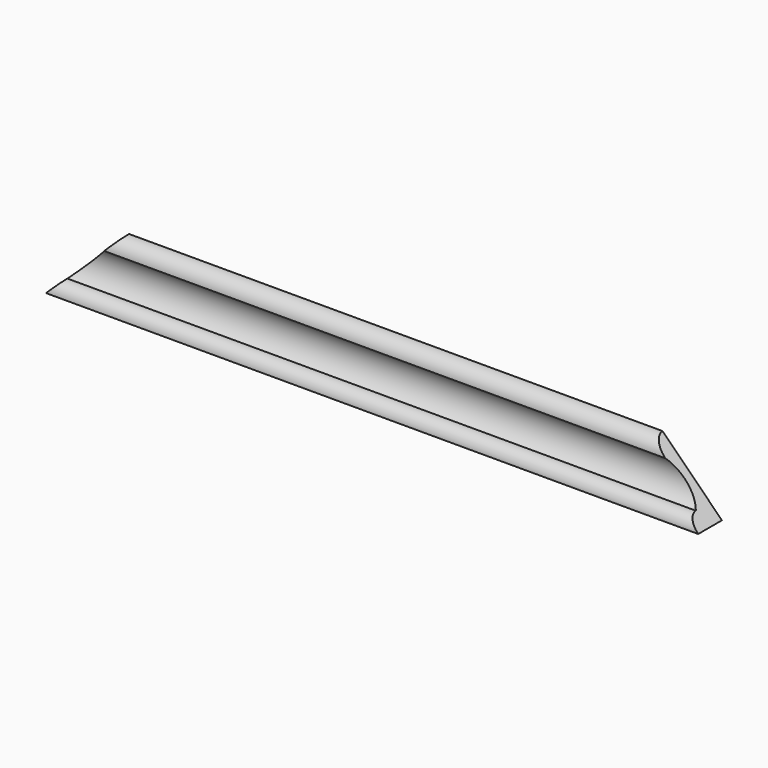
from build123d import *

# Parameters (mm, degrees)
PAD021_DEPTH = 40
PAD020_DEPTH = 40
PAD019_DEPTH = 330


with BuildPart() as body_decoration_bottom_cut_right002:
    # Sketch021 → Pad021 (new body)
    with BuildSketch(Plane(origin=(390, 0, 60), x_dir=(1, 0, 0), z_dir=(0, -1, 0))):
        Polygon((-40, 40), (0, 0), (0, 40), align=None)
    extrude(amount=PAD021_DEPTH)


with BuildPart() as body_decoration_bottom_cut_left002:
    # Sketch020 → Pad020 (new body)
    with BuildSketch(Plane(origin=(60, 0, 60), x_dir=(1, 0, 0), z_dir=(0, -1, 0))):
        Polygon((0, 0), (40, 40), (0, 40), align=None)
    extrude(amount=PAD020_DEPTH)


with BuildPart() as cut_decoration_bottom002:
    # Sketch019 → Pad019 (new body)
    with BuildSketch(Plane(origin=(60, 0, 60), x_dir=(0, 1, 0), z_dir=(1, 0, 0))):
        with BuildLine():
            Line((0, 30), (0, 0))
            Line((0, 0), (-15, 0))
            ThreePointArc((-9, 6), (-13.242641, 4.242641), (-15, 0))
            ThreePointArc((-9, 6), (-4.435882, 14.080692), (-7, 23))
            ThreePointArc((0, 30), (-4.949747, 27.949747), (-7, 23))
        make_face()
    extrude(amount=PAD019_DEPTH)

    # Cut008: cut Body, Decoration, Bottom, Cut, Left002
    add(body_decoration_bottom_cut_left002.part, mode=Mode.SUBTRACT)

    # Cut009: cut Body, Decoration, Bottom, Cut, Right002
    add(body_decoration_bottom_cut_right002.part, mode=Mode.SUBTRACT)


solid = cut_decoration_bottom002.part
